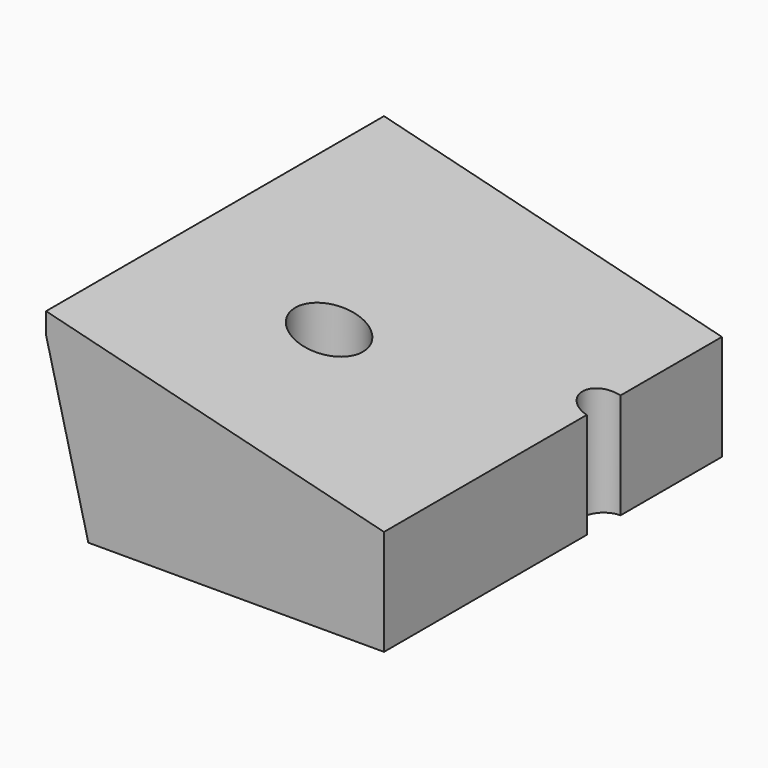
from build123d import *

# Parameters (mm, degrees)
F1_DEPTH = 100
F2_R     = 8
F3_DEPTH = 45.001
F4_R     = 5
F5_DEPTH = 45.001


with BuildPart() as f1:
    # F0 (on Front) → F1 (new body)
    with BuildSketch(Plane.XZ):
        Polygon((-10, 40), (0, 0), (70, 0), (70, 25), (-10, 45), align=None)
    extrude(amount=-F1_DEPTH)

    # F2 (on face) → F3 (cut, through all)
    with BuildSketch(Plane(origin=(0, 0, 0), x_dir=(1, 0, 0), z_dir=(0, 0, -1))):
        with Locations((25, -40)):
            Circle(F2_R)
    extrude(amount=-F3_DEPTH, mode=Mode.SUBTRACT)

    # F4 (on face) → F5 (cut, through all)
    with BuildSketch(Plane(origin=(0, 0, 0), x_dir=(1, 0, 0), z_dir=(0, 0, -1))):
        with Locations((70, -65)):
            Circle(F4_R)
    extrude(amount=-F5_DEPTH, mode=Mode.SUBTRACT)


solid = f1.part
